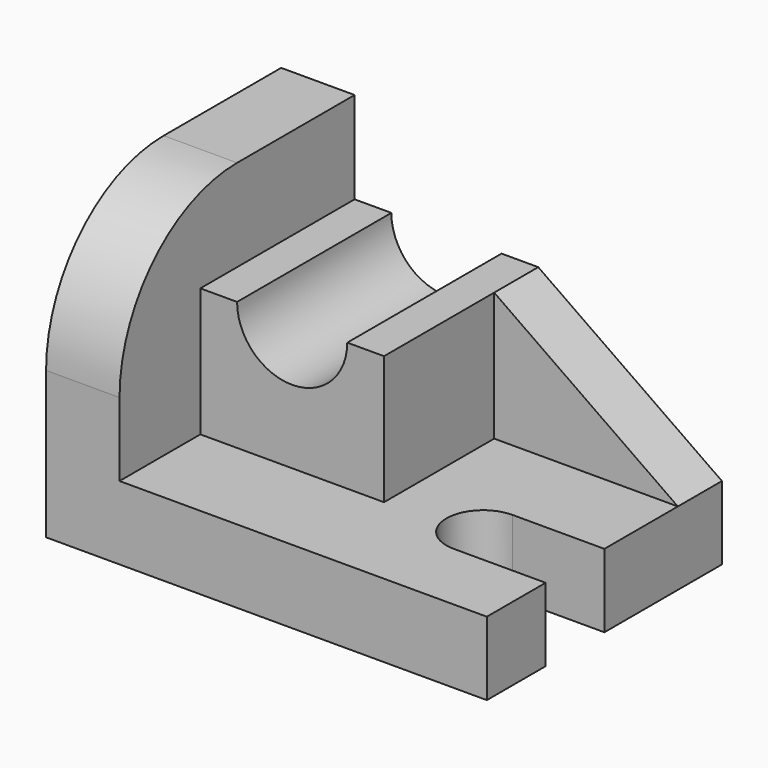
from build123d import *

# Parameters (mm, degrees)
F1_DEPTH  = 406.4
F2_W      = 406.4
F2_H      = 1625.6
F3_DEPTH  = 1219.2
F4_R      = 812.8
F5_W      = 1016
F5_H      = 1066.8
F6_DEPTH  = 711.2
F8_DEPTH  = 1066.8
F9_W      = 1016
F9_H      = 304.8
F10_DEPTH = 711.2
F11_SIZE2 = 1016
F11_SIZE  = 711.2


with BuildPart() as f1:
    # F0 (on Top) → F1 (new body)
    with BuildSketch(Plane.XY):
        with BuildLine():
            Line((-2438.4, 0), (0, 0))
            Line((0, 0), (0, 406.4))
            Line((0, 406.4), (-508, 406.4))
            ThreePointArc((-508, 406.4), (-711.2, 609.6), (-508, 812.8))
            Line((-508, 812.8), (0, 812.8))
            Line((0, 812.8), (0, 1320.8))
            Line((0, 1320.8), (0, 1625.6))
            Line((0, 1625.6), (-863.6, 1625.6))
            Line((-863.6, 1625.6), (-2438.4, 1625.6))
            Line((-2438.4, 1625.6), (-2438.4, 0))
        make_face()
    extrude(amount=F1_DEPTH)

    # F2 (on face) → F3 (join)
    with BuildSketch(Plane.XY.offset(406.4)):
        with Locations((-2235.2, 812.8)):
            Rectangle(F2_W, F2_H)
    extrude(amount=F3_DEPTH)

    # F4
    f4_edges = [f1.edges().sort_by_distance(p)[0] for p in [
        (-2235.2, 0, 1625.6),
    ]]
    fillet(f4_edges, radius=F4_R)

    # F5 (on face) → F6 (join)
    with BuildSketch(Plane.XY.offset(406.4)):
        with Locations((-1524, 1092.2)):
            Rectangle(F5_W, F5_H)
    extrude(amount=F6_DEPTH)

    # F7 (on face) → F8 (cut)
    with BuildSketch(Plane.XZ.offset(-558.8)):
        with BuildLine():
            Line((-1524, 1117.6), (-1219.2, 1117.6))
            ThreePointArc((-1219.2, 1117.6), (-1524, 1422.4), (-1828.8, 1117.6))
            Line((-1828.8, 1117.6), (-1524, 1117.6))
        make_face()
        with BuildLine():
            ThreePointArc((-1828.8, 1117.6), (-1524, 812.8), (-1219.2, 1117.6))
            Line((-1219.2, 1117.6), (-1524, 1117.6))
            Line((-1524, 1117.6), (-1828.8, 1117.6))
        make_face()
    extrude(amount=-F8_DEPTH, mode=Mode.SUBTRACT)

    # F9 (on face) → F10 (join)
    with BuildSketch(Plane.XY.offset(406.4)):
        with Locations((-508, 1473.2)):
            Rectangle(F9_W, F9_H)
    extrude(amount=F10_DEPTH)

    # F11
    f11_edges = [f1.edges().sort_by_distance(p)[0] for p in [
        (0, 1473.2, 1117.6),
    ]]
    f11_side = f1.faces().sort_by_distance((0, 826.619094, 203.2))[0]
    chamfer(f11_edges, length=F11_SIZE, length2=F11_SIZE2, reference=f11_side)


solid = f1.part
